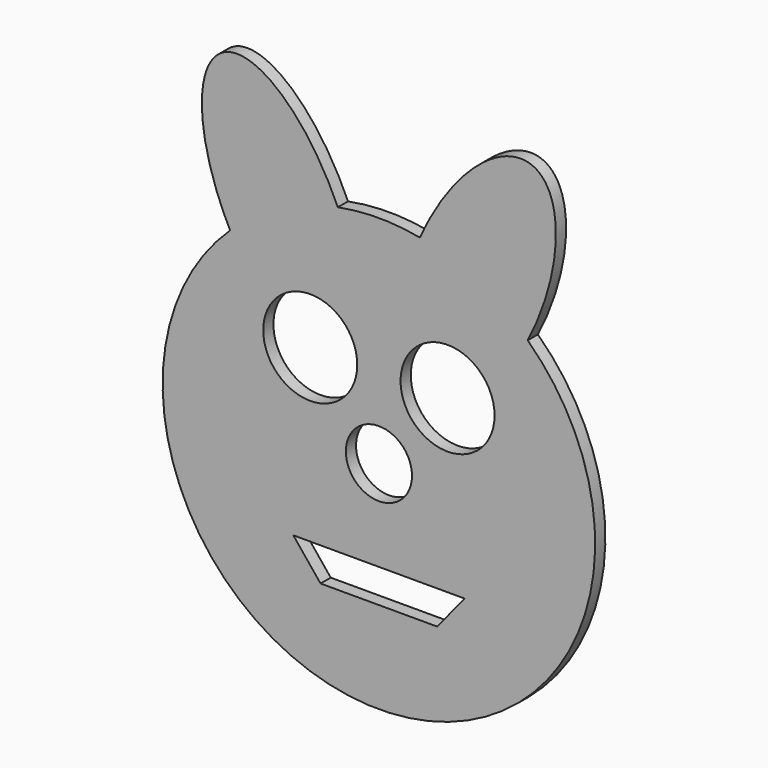
from build123d import *

# Parameters (mm, degrees)
F0_R     = 7.7834301628
F0_R_2   = 11.0631292908
F1_DEPTH = 3


with BuildPart() as f1:
    # F0 (on Front) → F1 (new body)
    with BuildSketch(Plane.XZ):
        with BuildLine():
            add(Edge.make_bspline(
                [(35.022471909, 36.9317159104), (50.1623293635, 66.3260911324), (36.5921272811, 73.3041068925), (23.0219251988, 80.2821226526), (9.6644197358, 49.9712334236)],
                knots=[1.4877804078, 1.4877804078, 1.4877804078, 3.1242955652, 3.1242955652, 4.7608107226, 4.7608107226, 4.7608107226], degree=2, weights=[1, 0.6834941351, 1, 0.6834941351, 1]))
            ThreePointArc((9.6644197358, 49.9712334236), (0, 50.8972020715), (-9.6644197358, 49.9712334236))
            add(Edge.make_bspline(
                [(-9.6644197358, 49.9712334236), (-23.0219251988, 80.2821226526), (-36.5921272811, 73.3041068925), (-50.1623293635, 66.3260911324), (-35.022471909, 36.9317159104)],
                knots=[1.5223745846, 1.5223745846, 1.5223745846, 3.158889742, 3.158889742, 4.7954048994, 4.7954048994, 4.7954048994], degree=2, weights=[1, 0.6834941351, 1, 0.6834941351, 1]))
            ThreePointArc((-35.022471909, 36.9317159104), (0, -50.8972020715), (35.022471909, 36.9317159104))
        make_face()
        Polygon((-20.1453492045, -21.3980246335), (0, -21.3980246335), (20.1453492045, -21.3980246335), (13.7354657054, -29.3023269624), (-13.7354657054, -29.3023269624), align=None, mode=Mode.SUBTRACT)
        Circle(F0_R, mode=Mode.SUBTRACT)
        with Locations((-16.1629359797, 18.8066806758)):
            Circle(F0_R_2, mode=Mode.SUBTRACT)
        with Locations((16.1629359797, 18.8066806758)):
            Circle(F0_R_2, mode=Mode.SUBTRACT)
    extrude(amount=F1_DEPTH)


solid = f1.part
